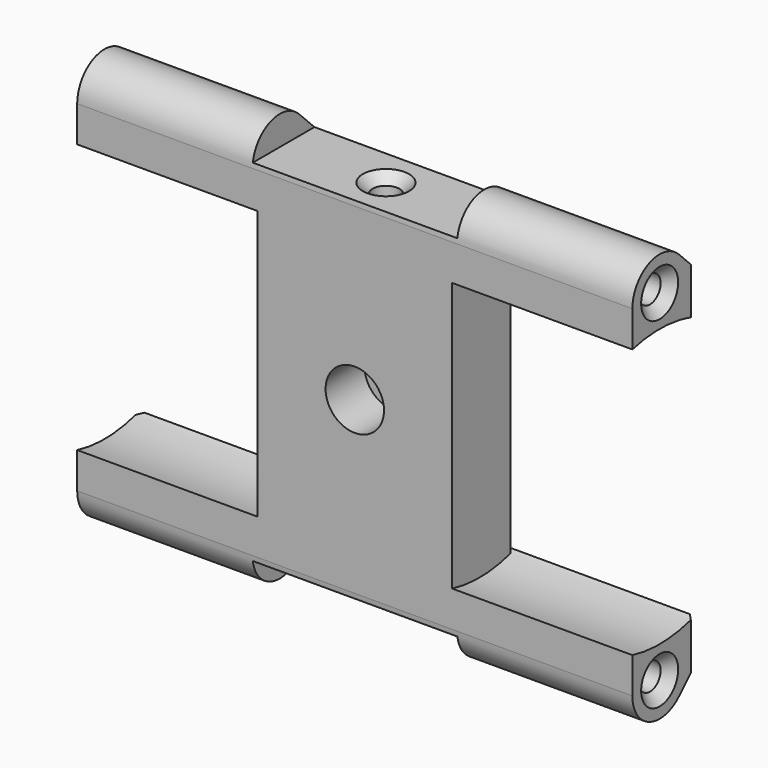
from build123d import *

# Parameters (mm, degrees)
PAD001_DEPTH    = 28.5
SKETCH002_R     = 14.25
POCKET_DEPTH    = 18.5
SKETCH003_R     = 1.375
POCKET001_DEPTH = 10
CHAMFER_SIZE    = 1
SKETCH004_W     = 10.5
SKETCH004_H     = 4
POCKET002_DEPTH = 10
SKETCH008_R     = 3
POCKET004_DEPTH = 5
SKETCH009_R     = 1.75
POCKET005_DEPTH = 5
CHAMFER004_SIZE = 0.5
SKETCH012_R     = 1.375
POCKET008_DEPTH = 8
SKETCH013_R     = 1.375
POCKET009_DEPTH = 8
CHAMFER005_SIZE = 1


with BuildPart() as motorbracketgroovemirrored001:
    # Sketch001 → Pad001 (new body)
    with BuildSketch(Plane.YZ):
        with BuildLine():
            ThreePointArc((2.474858, 19.974889), (-1.339402, 20.733574), (-3.5, 17.5))
            Line((-3.5, 17.5), (-3.5, -17.5))
            ThreePointArc((-3.5, -17.5), (-1.339402, -20.733574), (2.474858, -19.974889))
            Line((4.5, -17.949747), (2.474858, -19.974889))
            Line((4.5, 17.949747), (4.5, -17.949747))
            Line((4.5, 17.949747), (2.474858, 19.974889))
        make_face()
    extrude(amount=PAD001_DEPTH)

    # Sketch002 → Pocket (cut)
    with BuildSketch(Plane.YZ.offset(28.5)):
        Circle(SKETCH002_R)
    extrude(amount=-POCKET_DEPTH, mode=Mode.SUBTRACT)

    # Sketch003 → Pocket001 (cut)
    with BuildSketch(Plane.YZ.offset(28.5)):
        with Locations((0, 17.5)):
            Circle(SKETCH003_R)
    pocket001 = extrude(amount=-POCKET001_DEPTH, mode=Mode.SUBTRACT)

    # Mirrored: Pocket001 across Sketch003 H_Axis
    add(pocket001.mirror(Plane(origin=(28.5, 0, 0), x_dir=(1, 0, 0), z_dir=(0, 0, 1))), mode=Mode.SUBTRACT)

    # Chamfer
    chamfer_edges = [motorbracketgroovemirrored001.edges().sort_by_distance(p)[0] for p in [
        (28.5, -1.375, 17.5),
        (28.5, -1.375, -17.5),
    ]]
    chamfer(chamfer_edges, length=CHAMFER_SIZE)

    # Sketch004 → Pocket002 (cut)
    with BuildSketch(Plane(origin=(0, 4.5, 0), x_dir=(-1, 0, 0), z_dir=(0, 1, 0))):
        with Locations((-5.25, 20)):
            Rectangle(SKETCH004_W, SKETCH004_H)
    pocket002 = extrude(amount=-POCKET002_DEPTH, mode=Mode.SUBTRACT)

    # Mirrored001: Pocket002 across Sketch004 H_Axis
    add(pocket002.mirror(Plane(origin=(0, 4.5, 0), x_dir=(0, 1, 0), z_dir=(0, 0, 1))), mode=Mode.SUBTRACT)


with BuildPart() as motorbracketscrewchamfer005_final:
    # Part__Mirroring: instance of MotorBracketGrooveMirrored001
    add(motorbracketgroovemirrored001.part.mirror(Plane(origin=(0, 0, 0), x_dir=(0, -1, 0), z_dir=(1, 0, 0))))

    # Fusion001: union MotorBracketGrooveMirrored001
    add(motorbracketgroovemirrored001.part)

    # Sketch008 → Pocket004 (cut)
    with BuildSketch(Plane.XZ.offset(3.5)):
        Circle(SKETCH008_R)
    extrude(amount=-POCKET004_DEPTH, mode=Mode.SUBTRACT)

    # Sketch009 → Pocket005 (cut)
    with BuildSketch(Plane.XZ.offset(-1.5)):
        Circle(SKETCH009_R)
    extrude(amount=-POCKET005_DEPTH, mode=Mode.SUBTRACT)

    # Chamfer004
    chamfer004_edges = [motorbracketscrewchamfer005_final.edges().sort_by_distance(p)[0] for p in [
        (10, 4.5, 0),
        (0, 4.5, 1.75),
        (-10, 4.5, 0),
        (-28.5, 4.5, -15.735282),
        (-28.5, 4.5, 15.735282),
        (28.5, 4.5, -15.735282),
        (28.5, 4.5, 15.735282),
    ]]
    chamfer(chamfer004_edges, length=CHAMFER004_SIZE)

    # Sketch012 → Pocket008 (cut)
    with BuildSketch(Plane.XY.offset(18)):
        with Locations((0, 0.5)):
            Circle(SKETCH012_R)
    extrude(amount=-POCKET008_DEPTH, mode=Mode.SUBTRACT)

    # Sketch013 → Pocket009 (cut)
    with BuildSketch(Plane(origin=(0, 0, -18), x_dir=(1, 0, 0), z_dir=(0, 0, -1))):
        with Locations((0, -0.5)):
            Circle(SKETCH013_R)
    extrude(amount=-POCKET009_DEPTH, mode=Mode.SUBTRACT)

    # Chamfer005
    chamfer005_edges = [motorbracketscrewchamfer005_final.edges().sort_by_distance(p)[0] for p in [
        (-1.375, 0.5, -18),
        (-1.375, 0.5, 18),
    ]]
    chamfer(chamfer005_edges, length=CHAMFER005_SIZE)


solid = motorbracketscrewchamfer005_final.part
